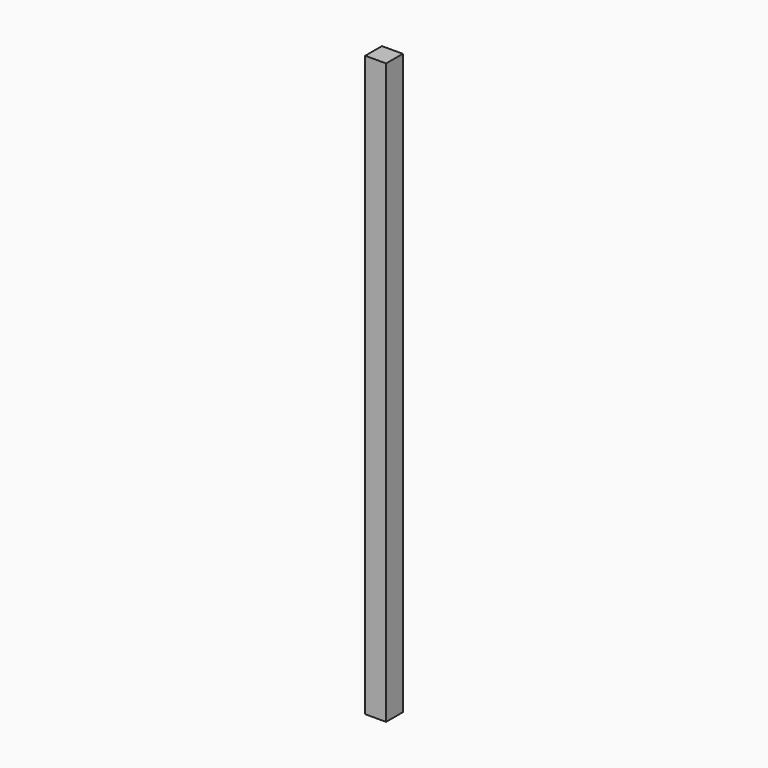
from build123d import *

# Parameters (mm, degrees)
F0_W     = 9
F0_H     = 9
F1_DEPTH = 250
F3_D     = 3
F3_DEPTH = 7.5
F3_TIP   = 0.9012909285


with BuildPart() as f1:
    # F0 (on Top) → F1 (new body)
    with BuildSketch(Plane.XY):
        Rectangle(F0_W, F0_H)
    extrude(amount=F1_DEPTH)

    # F3
    with Locations(Plane(origin=(0, 4.5, 0), x_dir=(-1, 0, 0), z_dir=(0, 1, 0))):
        with Locations((0, 240), (0, 210)):
            Hole(F3_D / 2, depth=F3_DEPTH)
            with Locations((0, 0, -(F3_DEPTH + F3_TIP / 2))):  # 118° drill point
                Cone(0, F3_D / 2, F3_TIP, mode=Mode.SUBTRACT)


solid = f1.part
